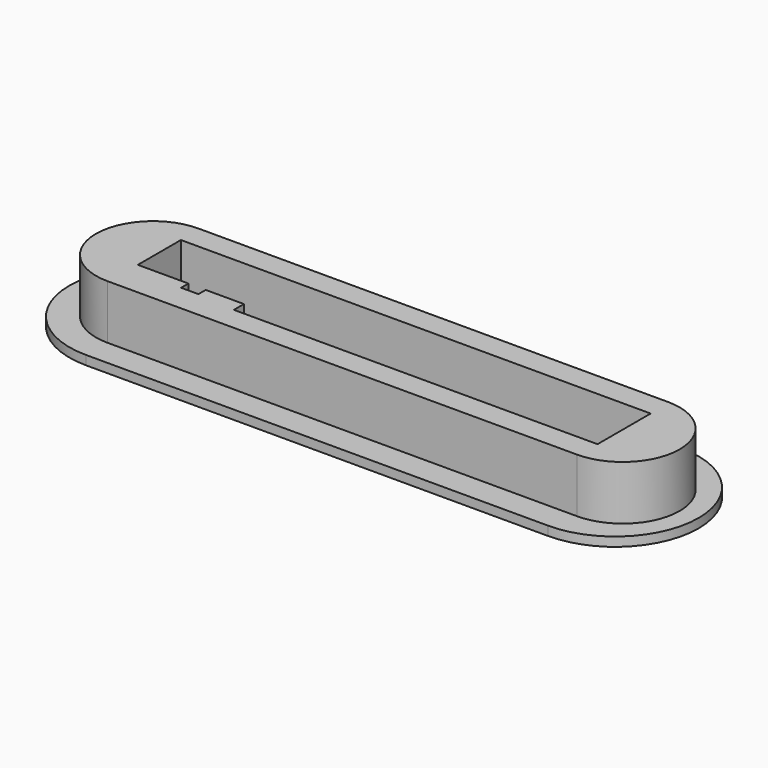
from build123d import *

# Parameters (mm, degrees)
PAD_DEPTH    = 2.1
POCKET_DEPTH = 5
PAD001_DEPTH = 12.5


with BuildPart() as part:
    # Sketch → Pad (new body)
    with BuildSketch(Plane.XY):
        with BuildLine():
            ThreePointArc((0, 19.25), (-19.25, 0), (0, -19.25))
            Line((0, -19.25), (106.5, -19.25))
            ThreePointArc((106.5, -19.25), (125.75, 0), (106.5, 19.25))
            Line((0, 19.25), (106.5, 19.25))
        make_face()
    extrude(amount=PAD_DEPTH)

    # Sketch001 (on Face6 of Pad) → Pocket (cut)
    with BuildSketch(Plane.XY.offset(2.1)):
        Polygon((0.325, 7.65), (108.575, 7.65), (108.575, -7.65), (24.775, -7.65), (24.775, -4.75), (15.975, -4.75), (15.975, -6.85), (11.975, -6.85), (11.975, -4.75), (0.325, -4.75), align=None)
    extrude(amount=-POCKET_DEPTH, mode=Mode.SUBTRACT)

    # Sketch002 (on Face5 of Pocket) → Pad001 (join)
    with BuildSketch(Plane.XY.offset(2.1)):
        with BuildLine():
            ThreePointArc((0, 13.125), (-13.125, 0), (0, -13.125))
            Line((0, -13.125), (108.25, -13.125))
            ThreePointArc((108.25, -13.125), (121.375, 0), (108.25, 13.125))
            Line((0, 13.125), (108.25, 13.125))
        make_face()
        Polygon((0.325, 7.65), (0.325, -4.75), (11.975, -4.75), (11.975, -6.85), (15.975, -6.85), (15.975, -4.75), (24.775, -4.75), (24.775, -7.65), (108.575, -7.65), (108.575, 7.65), align=None, mode=Mode.SUBTRACT)
    extrude(amount=PAD001_DEPTH)


solid = part.part
